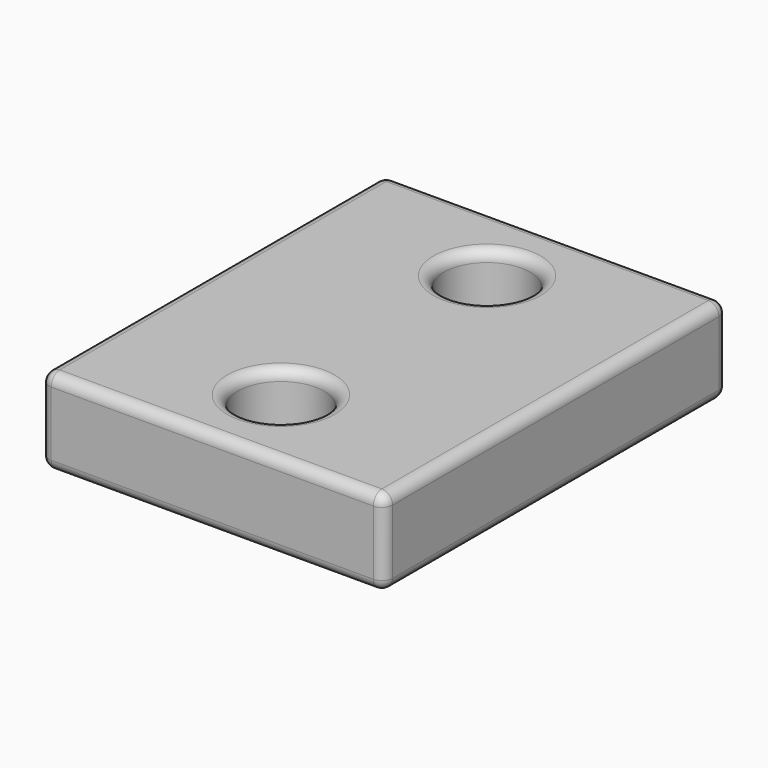
from build123d import *

# Parameters (mm, degrees)
F0_W     = 203.2
F0_H     = 254
F0_R     = 25.4
F1_DEPTH = 50.8
F2_R     = 6.35


with BuildPart() as f1:
    # F0 (on Top) → F1 (new body)
    with BuildSketch(Plane.XY):
        with Locations((101.6, 127)):
            Rectangle(F0_W, F0_H)
        with Locations((101.6, 50.8)):
            Circle(F0_R, mode=Mode.SUBTRACT)
        with Locations((101.6, 203.2)):
            Circle(F0_R, mode=Mode.SUBTRACT)
    extrude(amount=F1_DEPTH)

    # F2
    f2_edges = [f1.edges().sort_by_distance(p)[0] for p in [
        (76.2, 203.2, 50.8),
        (76.2, 50.8, 50.8),
        (101.6, 0, 50.8),
        (203.2, 127, 50.8),
        (0, 127, 50.8),
        (0, 127, 0),
        (0, 0, 25.4),
        (0, 254, 25.4),
        (101.6, 254, 50.8),
        (101.6, 254, 0),
        (203.2, 254, 25.4),
        (203.2, 0, 25.4),
        (101.6, 0, 0),
        (203.2, 127, 0),
        (76.2, 50.8, 0),
        (76.2, 203.2, 0),
    ]]
    fillet(f2_edges, radius=F2_R)


solid = f1.part
